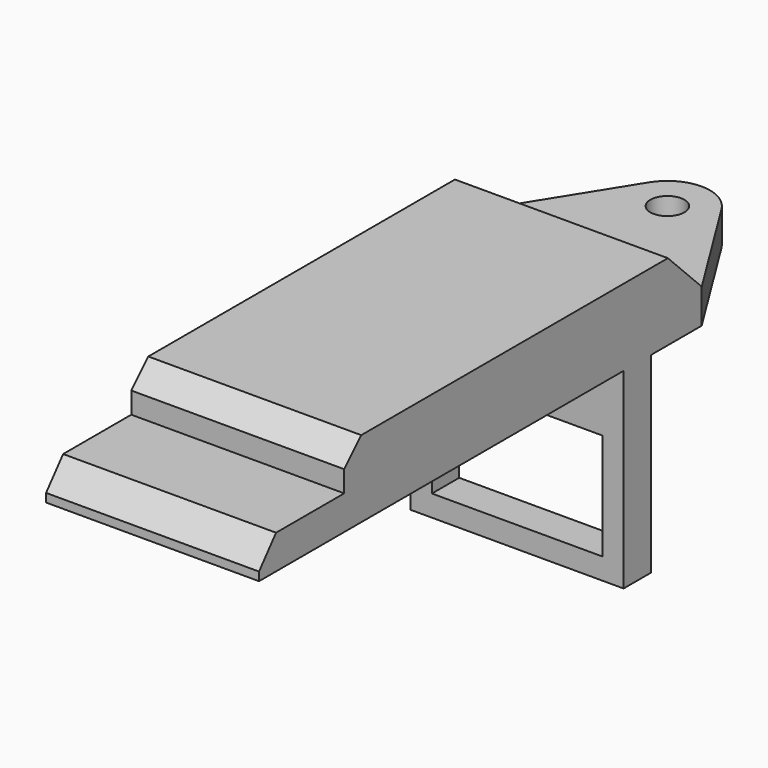
from build123d import *

# Parameters (mm, degrees)
PAD_DEPTH       = 25
SKETCH001_W     = 25
SKETCH001_H     = 40
POCKET_DEPTH    = 63.001
POCKET001_DEPTH = 429.133955
FILLET_R        = 10
SKETCH003_R     = 4
POCKET002_DEPTH = 53.001


with BuildPart() as part:
    # Sketch → Pad (new body, symmetric)
    with BuildSketch(Plane.YZ):
        Polygon((-107, 0), (0, 0), (0, -45), (8, -45), (8, 0), (63, 0), (63, 8), (23, 8), (13, 18), (-77, 18), (-82, 13), (-82, 8), (-102, 8), (-107, 2), align=None)
    extrude(amount=PAD_DEPTH, both=True)

    # Sketch001 → Pocket (cut, through all)
    with BuildSketch(Plane(origin=(0, 0, 0), x_dir=(0, 0, -1), z_dir=(0, -1, 0))):
        with Locations((27.5, 0)):
            Rectangle(SKETCH001_W, SKETCH001_H)
    extrude(amount=-POCKET_DEPTH, mode=Mode.SUBTRACT)

    # Sketch002 → Pocket001 (cut, through all)
    with BuildSketch(Plane(origin=(0, 0, 8), x_dir=(0, -1, 0), z_dir=(0, 0, 1))):
        Polygon((-22.911764, -25), (-63, 0), (-63, -25), align=None)
    pocket001 = extrude(amount=-POCKET001_DEPTH, mode=Mode.SUBTRACT)

    # Mirrored: Pocket001 across Sketch002 H_Axis
    add(pocket001.mirror(Plane(origin=(0, 0, 8), x_dir=(0, 0, 1), z_dir=(1, 0, 0))), mode=Mode.SUBTRACT)

    # Fillet
    fillet_edges = [part.edges().sort_by_distance(p)[0] for p in [
        (0, 63, 4),
    ]]
    fillet(fillet_edges, radius=FILLET_R)

    # Sketch003 → Pocket002 (cut, through all)
    with BuildSketch(Plane(origin=(0, 0, 8), x_dir=(0, -1, 0), z_dir=(0, 0, 1))):
        with Locations((-44.102099, 0)):
            Circle(SKETCH003_R)
    extrude(amount=-POCKET002_DEPTH, mode=Mode.SUBTRACT)


solid = part.part
